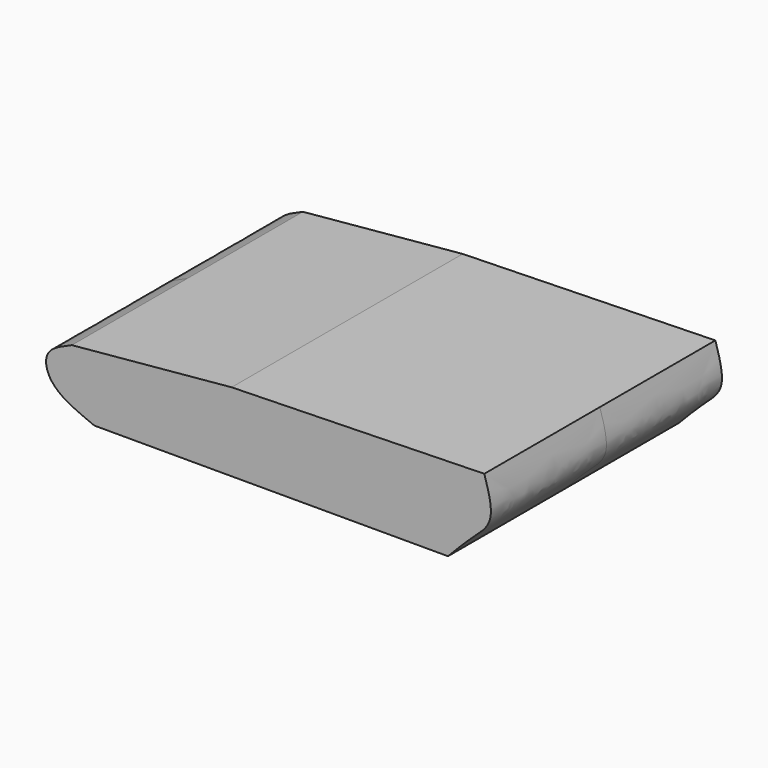
from build123d import *

# Parameters (mm, degrees)
F1_DEPTH = 38.1


with BuildPart() as f1:
    # F0 (on Front) → F1 (new body, symmetric)
    with BuildSketch(Plane.XZ):
        with BuildLine():
            Line((43.2224310935, 1.5943679027), (-23.4427358955, 0))
            Line((-23.4427358955, 0), (-65.5905306339, -3.9171427488))
            add(Edge.make_bspline(
                [(-65.5905306339, -3.9171427488), (-68.0041984956, -4.9276178366), (-72.229069768, -6.6963480077), (-72.7463312071, -11.6753389144), (-69.0538055852, -17.2946702596), (-59.6869487074, -20.5694560435), (-59.6583485603, -20.671416074)],
                knots=[0, 0, 0, 0, 0.2489109965, 0.4356924726, 0.6905546732, 0.9729684049, 0.9729684049, 0.9729684049, 0.9729684049], degree=3))
            Line((-59.6583485603, -20.671416074), (33.6398594081, -20.671416074))
            add(Edge.make_bspline(
                [(33.6398594081, -20.671416074), (35.8208168114, -18.40731191), (39.9250798829, -14.1465780249), (46.4031363616, -8.9319649582), (44.3428903861, -2.113717719), (43.2224310935, 1.5943679027)],
                knots=[0, 0, 0, 0, 0.3409172772, 0.6415596146, 1, 1, 1, 1], degree=3))
        make_face()
    extrude(amount=F1_DEPTH, both=True)


solid = f1.part
